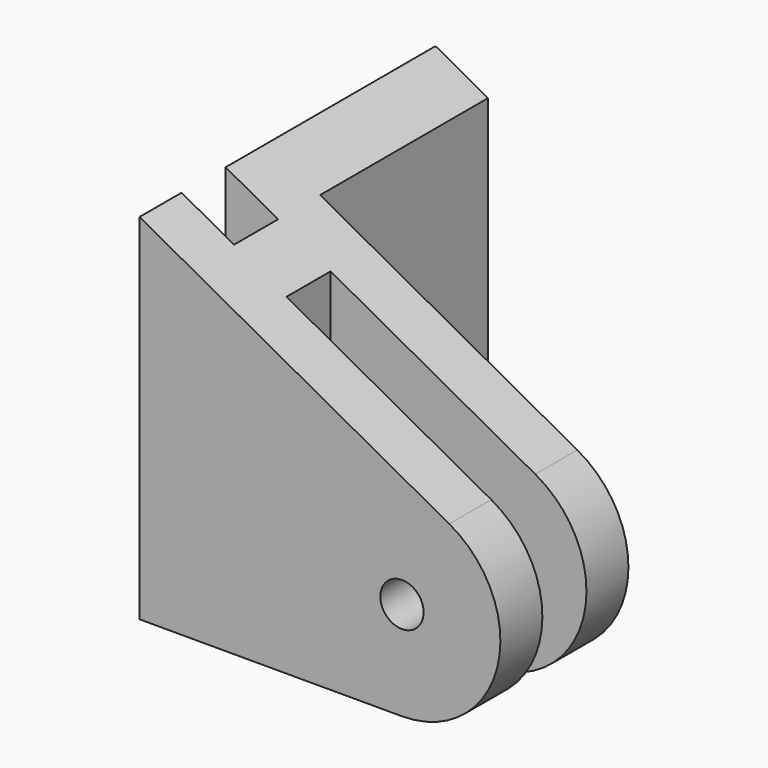
from build123d import *

# Parameters (mm, degrees)
SKETCH001_R   = 1.65
EXTRUDE_DEPTH = 40
PAD_DEPTH     = 27


with BuildPart() as extrude_body:
    # Sketch001 → Extrude (new body, symmetric)
    with BuildSketch(Plane.XZ):
        with BuildLine():
            ThreePointArc((20, 0), (27.266003, 5.641182), (23.601647, 14.078612))
            Line((0, 27), (23.601647, 14.078612))
            Line((0, 0), (0, 27))
            Line((0, 0), (20, 0))
        make_face()
        with Locations((20, 7.5)):
            Circle(SKETCH001_R, mode=Mode.SUBTRACT)
    extrude(amount=EXTRUDE_DEPTH, both=True)


with BuildPart() as common:
    # Sketch → Pad (new body)
    with BuildSketch(Plane.XY):
        Polygon((0, 22.1), (4, 22.1), (4, 6.1), (27.5, 6.1), (27.5, 2.1), (8, 2.1), (8, -2.1), (27.5, -2.1), (27.5, -6.1), (0, -6.1), (0, -2.1), (4, -2.1), (4, 2.1), (0, 2.1), align=None)
    extrude(amount=PAD_DEPTH)

    # Common: intersect Extrude body
    add(extrude_body.part, mode=Mode.INTERSECT)


solid = common.part
